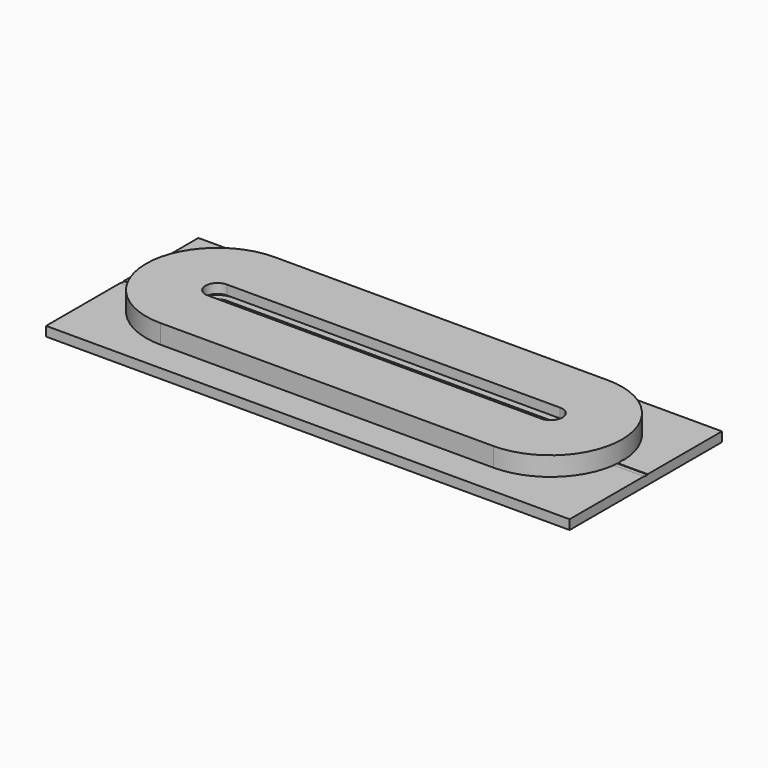
from build123d import *

# Parameters (mm, degrees)
F0_W      = 279.4
F0_H      = 101.6
F1_DEPTH  = 5.08
F3_DEPTH  = 5.081
F5_DEPTH  = 5.08
F8_DEPTH  = 5.08
F10_DEPTH = 5.08
F11_R     = 6.35
F11_R_2   = 3.81
F12_DEPTH = 2.54
F13_R     = 3.683
F13_R_2   = 2.54
F14_DEPTH = 5.08
F15_W     = 31.75
F15_H     = 2.54
F16_DEPTH = 0.254
F17_W     = 6.35
F17_H     = 2.54
F18_DEPTH = 0.254


with BuildPart() as f1:
    # F0 (on Top) → F1 (new body)
    with BuildSketch(Plane.XY):
        Rectangle(F0_W, F0_H)
    extrude(amount=F1_DEPTH)

    # F2 (on face) → F3 (cut, through all)
    with BuildSketch(Plane.XY.offset(5.08)):
        with BuildLine():
            ThreePointArc((-88.9, 6.35), (-95.25, 0), (-88.9, -6.35))
            Line((-88.9, -6.35), (88.9, -6.35))
            ThreePointArc((88.9, -6.35), (95.25, 0), (88.9, 6.35))
            Line((88.9, 6.35), (-88.9, 6.35))
        make_face()
    extrude(amount=-F3_DEPTH, mode=Mode.SUBTRACT)

    # F4 (on face) → F5 (join)
    with BuildSketch(Plane.XY.offset(5.08)):
        with BuildLine():
            Line((88.9, 10.16), (-88.9, 10.16))
            ThreePointArc((-88.9, 10.16), (-99.06, 0), (-88.9, -10.16))
            Line((-88.9, -10.16), (88.9, -10.16))
            ThreePointArc((88.9, -10.16), (99.06, 0), (88.9, 10.16))
        make_face()
        with BuildLine():
            ThreePointArc((-88.9, -6.35), (-95.25, 0), (-88.9, 6.35))
            Line((-88.9, 6.35), (88.9, 6.35))
            ThreePointArc((88.9, 6.35), (95.25, 0), (88.9, -6.35))
            Line((88.9, -6.35), (-88.9, -6.35))
        make_face(mode=Mode.SUBTRACT)
    extrude(amount=F5_DEPTH)

    # F11 (on face) → F12 (join)
    with BuildSketch(Plane.XY.offset(5.08)):
        with Locations((-88.9, -19.05)):
            Circle(F11_R)
        with Locations((-88.9, -19.05)):
            Circle(F11_R_2, mode=Mode.SUBTRACT)
        with Locations((-88.9, 19.05)):
            Circle(F11_R)
        with Locations((-88.9, 19.05)):
            Circle(F11_R_2, mode=Mode.SUBTRACT)
        with Locations((88.9, -19.05)):
            Circle(F11_R)
        with Locations((88.9, -19.05)):
            Circle(F11_R_2, mode=Mode.SUBTRACT)
        with Locations((88.9, 19.05)):
            Circle(F11_R)
        with Locations((88.9, 19.05)):
            Circle(F11_R_2, mode=Mode.SUBTRACT)
    extrude(amount=F12_DEPTH)

    # F15 (on face) → F16 (cut)
    with BuildSketch(Plane.XY.offset(5.08)):
        with Locations((-123.825, 0)):
            Rectangle(F15_W, F15_H)
        with Locations((123.825, 0)):
            Rectangle(F15_W, F15_H)
    extrude(amount=-F16_DEPTH, mode=Mode.SUBTRACT)


with BuildPart() as f8:
    # F7 (on offset) → F8 (new body)
    with BuildSketch(Plane.XY.offset(12.7)):
        with BuildLine():
            Line((88.9, 38.1), (-88.9, 38.1))
            ThreePointArc((-88.9, 38.1), (-127, 0), (-88.9, -38.1))
            Line((-88.9, -38.1), (88.9, -38.1))
            ThreePointArc((88.9, -38.1), (127, 0), (88.9, 38.1))
        make_face()
        with BuildLine():
            ThreePointArc((-88.9, -6.35), (-95.25, 0), (-88.9, 6.35))
            Line((-88.9, 6.35), (88.9, 6.35))
            ThreePointArc((88.9, 6.35), (95.25, 0), (88.9, -6.35))
            Line((88.9, -6.35), (-88.9, -6.35))
        make_face(mode=Mode.SUBTRACT)
    extrude(amount=F8_DEPTH)

    # F9 (on face) → F10 (join)
    with BuildSketch(Plane(origin=(0, 0, 12.7), x_dir=(1, 0, 0), z_dir=(0, 0, -1))):
        with BuildLine():
            Line((88.9, 38.1), (-88.9, 38.1))
            ThreePointArc((-88.9, 38.1), (-127, 0), (-88.9, -38.1))
            Line((-88.9, -38.1), (88.9, -38.1))
            ThreePointArc((88.9, -38.1), (127, 0), (88.9, 38.1))
        make_face()
        with BuildLine():
            ThreePointArc((-88.9, -33.02), (-121.92, 0), (-88.9, 33.02))
            Line((-88.9, 33.02), (88.9, 33.02))
            ThreePointArc((88.9, 33.02), (121.92, 0), (88.9, -33.02))
            Line((88.9, -33.02), (-88.9, -33.02))
        make_face(mode=Mode.SUBTRACT)
    extrude(amount=F10_DEPTH)

    # F13 (on face) → F14 (join)
    with BuildSketch(Plane(origin=(0, 0, 12.7), x_dir=(1, 0, 0), z_dir=(0, 0, -1))):
        with Locations((-88.9, -19.05)):
            Circle(F13_R)
        with Locations((-88.9, -19.05)):
            Circle(F13_R_2, mode=Mode.SUBTRACT)
        with Locations((-88.9, 19.05)):
            Circle(F13_R)
        with Locations((-88.9, 19.05)):
            Circle(F13_R_2, mode=Mode.SUBTRACT)
        with Locations((88.9, -19.05)):
            Circle(F13_R)
        with Locations((88.9, -19.05)):
            Circle(F13_R_2, mode=Mode.SUBTRACT)
        with Locations((88.9, 19.05)):
            Circle(F13_R)
        with Locations((88.9, 19.05)):
            Circle(F13_R_2, mode=Mode.SUBTRACT)
    extrude(amount=F14_DEPTH)

    # F17 (on face) → F18 (cut)
    with BuildSketch(Plane(origin=(0, 0, 7.62), x_dir=(1, 0, 0), z_dir=(0, 0, -1))):
        with Locations((-124.46, 0)):
            Rectangle(F17_W, F17_H)
        with Locations((124.46, 0)):
            Rectangle(F17_W, F17_H)
    extrude(amount=-F18_DEPTH, mode=Mode.SUBTRACT)


solid = Compound([f1.part, f8.part])
